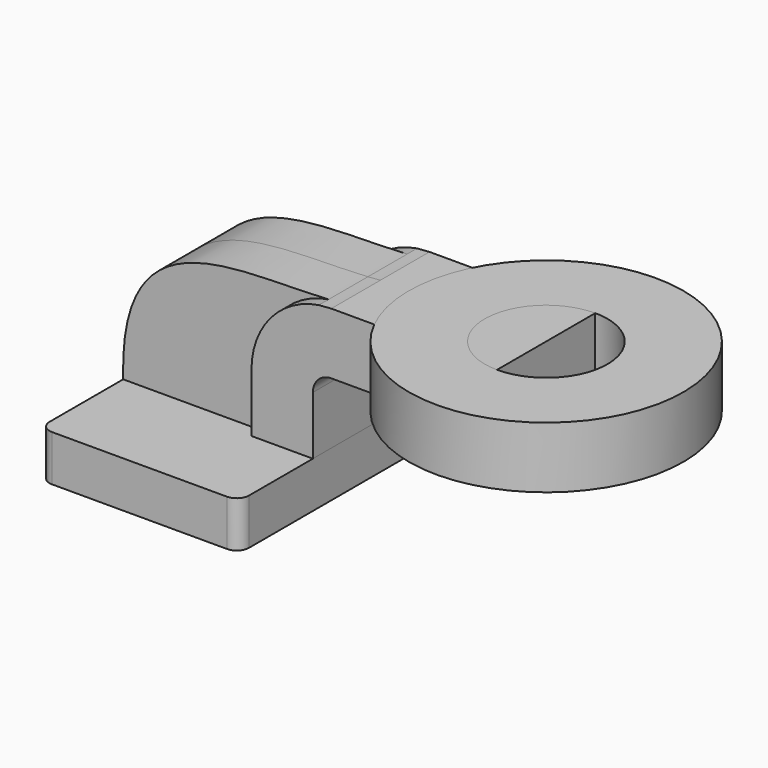
from build123d import *

# Parameters (mm, degrees)
F1_DEPTH  = 63.5
F2_DEPTH  = 20.32
F3_DEPTH  = 25.4
F4_DEPTH  = 25.4
F5_R      = 5.08
F3_FACE_W = 50.8
F3_FACE_H = 25.4


with BuildPart() as f1:
    # F0 (on Front) → F1 (new body, symmetric)
    with BuildSketch(Plane.XZ):
        Polygon((-41.275, -9.525), (41.275, -9.525), (41.275, 9.525), (15.875, 9.525), (-41.275, 9.525), align=None)
    extrude(amount=F1_DEPTH, both=True)

    # F0 (on Front) → F2 (join, symmetric)
    with BuildSketch(Plane.XZ):
        with BuildLine():
            add(Edge.make_bspline(
                [(-41.275, 9.525), (-43.152439, 73.063829), (4.952169, 63.829557), (43.720809, 66.267086)],
                knots=[0, 0, 0, 0, 102.156244, 102.156244, 102.156244, 102.156244], degree=3))
            Line((-41.275, 9.525), (15.875, 9.525))
            Line((15.875, 9.525), (15.875, 33.655))
            ThreePointArc((15.875, 33.655), (23.783527, 55.096416), (43.720809, 66.267086))
        make_face()
    extrude(amount=F2_DEPTH, both=True)

    # F5
    f5_edges = [f1.edges().sort_by_distance(p)[0] for p in [
        (-41.275, -63.5, 0),
        (41.275, -63.5, 0),
        (41.275, 63.5, 0),
        (-41.275, 63.5, 0),
    ]]
    fillet(f5_edges, radius=F5_R)


with BuildPart() as f3:
    # F0 (on Front) → F3 (new body, symmetric)
    with BuildSketch(Plane.XZ):
        Polygon((66.675, 66.675), (66.675, 41.275), (74.26136, 41.275), (117.475, 41.275), (117.475, 66.675), (74.26136, 66.675), align=None)
    extrude(amount=F3_DEPTH, both=True)


with BuildPart() as f4:
    # F0 (on Front) → F4 (new body, symmetric)
    with BuildSketch(Plane.XZ):
        with BuildLine():
            Line((15.875, 9.525), (41.275, 9.525))
            Line((41.275, 9.525), (41.275, 33.655))
            ThreePointArc((41.275, 33.655), (43.506846, 39.043154), (48.895, 41.275))
            Line((48.895, 41.275), (66.675, 41.275))
            Line((66.675, 41.275), (66.675, 66.675))
            Line((66.675, 66.675), (48.895, 66.675))
            add(Edge.make_bspline(
                [(43.720809, 66.267086), (45.466268, 66.376829), (47.192803, 66.510232), (48.895, 66.675)],
                knots=[102.156244, 102.156244, 102.156244, 102.156244, 106.755568, 106.755568, 106.755568, 106.755568], degree=3))
            ThreePointArc((43.720809, 66.267086), (23.783527, 55.096416), (15.875, 33.655))
            Line((15.875, 33.655), (15.875, 9.525))
        make_face()
    extrude(amount=F4_DEPTH, both=True)


with BuildPart() as f6:
    # F3_face (on face) → F6 (revolve)
    with BuildSketch(Plane(origin=(92.075, -25.4, 53.975), x_dir=(1, 0, 0), z_dir=(0, -1, 0))):
        Rectangle(F3_FACE_W, F3_FACE_H)
    revolve(axis=Axis((117.475, 0, 53.975), (0, 0, 1)))


solid = Compound([f1.part, f3.part, f4.part, f6.part])
